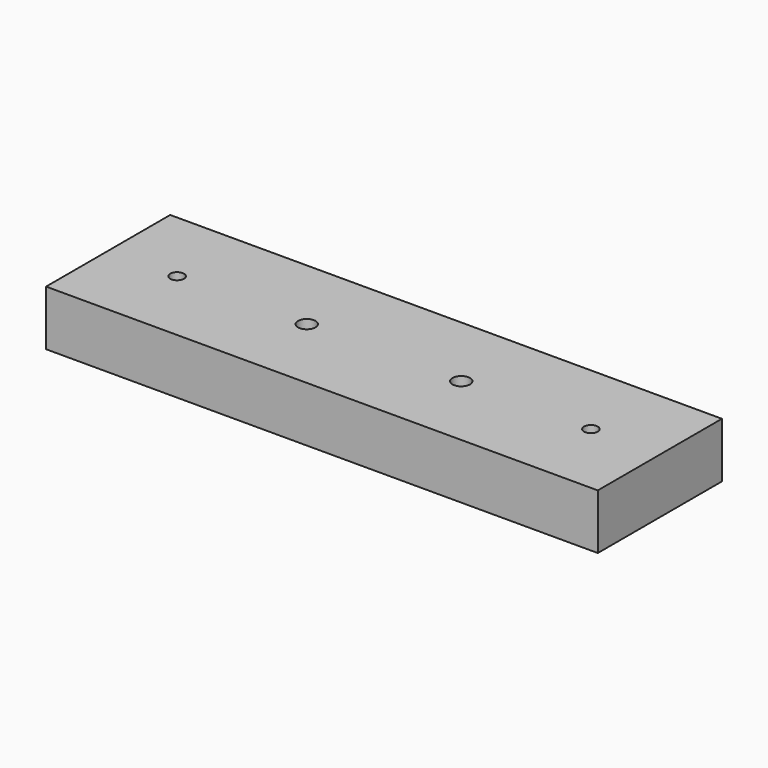
from build123d import *

# Parameters (mm, degrees)
F0_W     = 127
F0_H     = 35.7124
F0_R     = 1.5875
F0_R_2   = 4.6228
F0_R_3   = 2.0193
F1_DEPTH = 12.7


with BuildPart() as f1:
    # F0 (on Top) → F1 (new body)
    with BuildSketch(Plane.XY):
        with Locations((63.5, 17.8562)):
            Rectangle(F0_W, F0_H)
        with Locations((15.875, 17.8562)):
            Circle(F0_R, mode=Mode.SUBTRACT)
        with Locations((45.72, 17.8562)):
            Circle(F0_R_2, mode=Mode.SUBTRACT)
        with Locations((81.28, 17.8562)):
            Circle(F0_R_2, mode=Mode.SUBTRACT)
        with Locations((111.125, 17.8562)):
            Circle(F0_R, mode=Mode.SUBTRACT)
        with Locations((45.72, 17.8562)):
            Circle(F0_R_2)
        with Locations((45.72, 17.8562)):
            Circle(F0_R_3, mode=Mode.SUBTRACT)
        with Locations((81.28, 17.8562)):
            Circle(F0_R_2)
        with Locations((81.28, 17.8562)):
            Circle(F0_R_3, mode=Mode.SUBTRACT)
    extrude(amount=F1_DEPTH)


solid = f1.part
